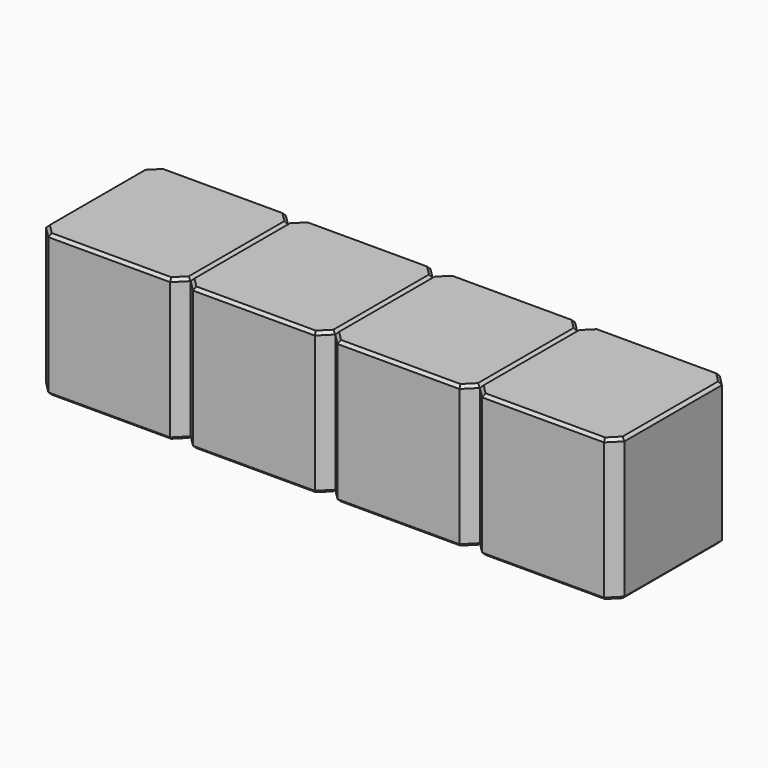
from build123d import *

# Parameters (mm, degrees)
SKETCH222_W      = 2.54
SKETCH222_H      = 2.54
PAD077_DEPTH     = 2.5
CHAMFER034_SIZE  = 0.2
CHAMFER036_SIZE  = 0.05
ARRAY015_X_COUNT = 4
ARRAY015_X_PITCH = 2.54


with BuildPart() as array015:
    # Sketch222 → Pad077 (new body)
    with BuildSketch(Plane.XY):
        Rectangle(SKETCH222_W, SKETCH222_H)
    extrude(amount=PAD077_DEPTH)

    # Chamfer034
    chamfer034_edges = [array015.edges().sort_by_distance(p)[0] for p in [
        (1.27, -1.27, 1.25),
        (-1.27, -1.27, 1.25),
        (1.27, 1.27, 1.25),
        (-1.27, 1.27, 1.25),
    ]]
    chamfer(chamfer034_edges, length=CHAMFER034_SIZE)

    # Chamfer036
    chamfer036_edges = [array015.edges().sort_by_distance(p)[0] for p in [
        (0, -1.27, 2.5),
        (-1.17, -1.17, 2.5),
        (1.17, -1.17, 2.5),
        (-1.27, 0, 2.5),
        (1.27, 0, 2.5),
        (-1.17, 1.17, 2.5),
        (1.17, 1.17, 2.5),
        (0, 1.27, 2.5),
        (0, -1.27, 0),
        (-1.17, -1.17, 0),
        (1.17, -1.17, 0),
        (-1.27, 0, 0),
        (1.27, 0, 0),
        (-1.17, 1.17, 0),
        (1.17, 1.17, 0),
        (0, 1.27, 0),
    ]]
    chamfer(chamfer036_edges, length=CHAMFER036_SIZE)


with BuildPart() as array015_copy1:
    # Array015 X: instance of Array015
    add(array015.part.moved(Location(Vector(1, 0, 0) * (1 * ARRAY015_X_PITCH))))


with BuildPart() as array015_copy2:
    # Array015 X: instance of Array015
    add(array015.part.moved(Location(Vector(1, 0, 0) * (2 * ARRAY015_X_PITCH))))


with BuildPart() as array015_copy3:
    # Array015 X: instance of Array015
    add(array015.part.moved(Location(Vector(1, 0, 0) * (3 * ARRAY015_X_PITCH))))


solid = Compound([array015.part, array015_copy1.part, array015_copy2.part, array015_copy3.part])
